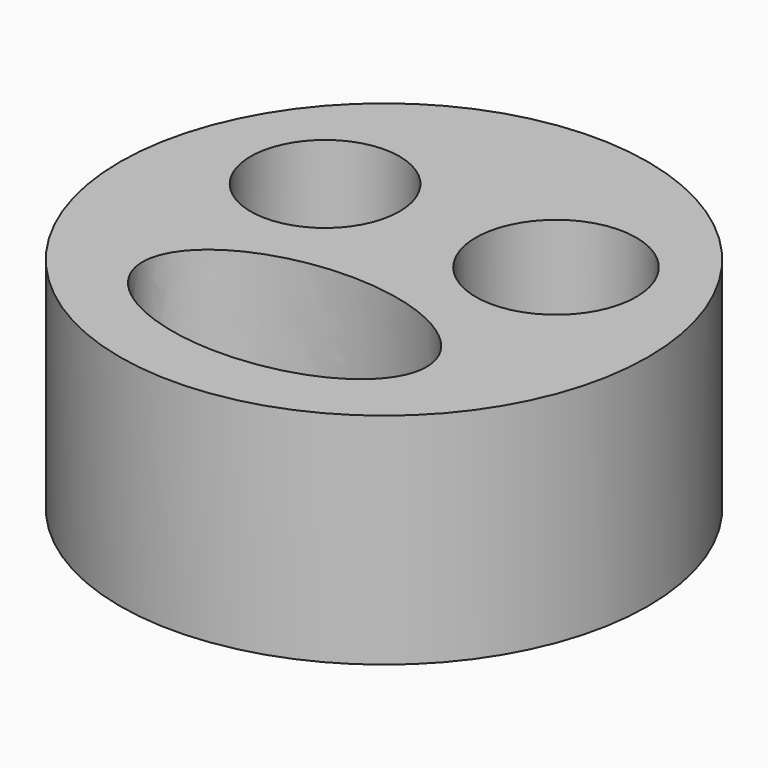
from build123d import *

# Parameters (mm, degrees)
F0_R     = 30.603195
F0_R_2   = 8.631816
F0_R_3   = 9.305142
F1_DEPTH = 25.4


with BuildPart() as f1:
    # F0 (on Top) → F1 (new body)
    with BuildSketch(Plane.XY):
        with Locations((-26.822401, 22.7076)):
            Circle(F0_R)
        with BuildLine():
            add(Edge.make_bspline(
                [(-43.586399, 8.6868), (-43.586399, -7.849154), (-18.897601, 0.418823), (5.791197, 8.6868), (-18.897601, 16.954776), (-43.586399, 25.222753), (-43.586399, 8.6868)],
                knots=[0, 0, 0, 2.094395, 2.094395, 4.18879, 4.18879, 6.283185, 6.283185, 6.283185], degree=2, weights=[1, 0.5, 1, 0.5, 1, 0.5, 1]))
        make_face(mode=Mode.SUBTRACT)
        with Locations((-40.233601, 30.9372)):
            Circle(F0_R_2, mode=Mode.SUBTRACT)
        with Locations((-13.715999, 31.242002)):
            Circle(F0_R_3, mode=Mode.SUBTRACT)
    extrude(amount=F1_DEPTH)


solid = f1.part
